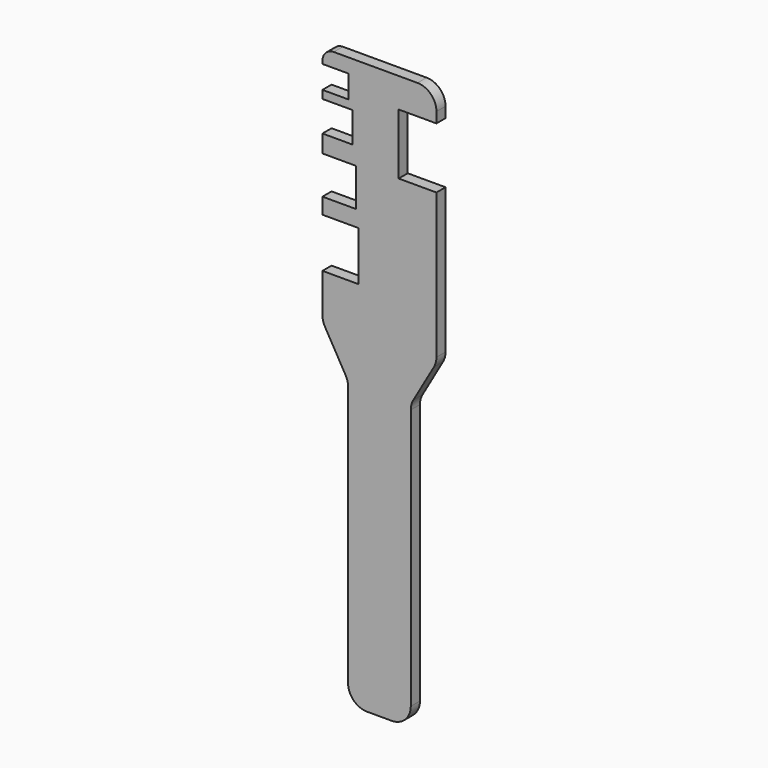
from build123d import *

# Parameters (mm, degrees)
F1_DEPTH = 3
F2_W     = 10.790673
F2_H     = 8
F2_W_2   = 11.792415
F2_H_2   = 10
F2_W_3   = 13.604847
F2_H_3   = 13
F2_W_4   = 18.819063
F2_H_4   = 16
F3_DEPTH = 25
F4_R     = 5
F5_R     = 3
F6_R     = 5
F7_R     = 5
F8_R     = 5
F9_R     = 5
F10_R    = 5
F11_R    = 5


with BuildPart() as f1:
    # F0 (on Front) → F1 (new body)
    with BuildSketch(Plane.XZ):
        Polygon((15, 75), (-15, 75), (-15, 11.736112), (-8.253973, 0), (-8.253973, -75), (0, -75), (8.253973, -75), (8.253973, 0), (15, 11.736112), align=None)
    extrude(amount=F1_DEPTH)

    # F2 (on face) → F3 (cut)
    with BuildSketch(Plane.XZ.offset(3)):
        Polygon((-8.118863, 71.253784), (-15, 71.253784), (-17.755223, 71.253784), (-17.755223, 65.253784), (-8.118863, 65.253784), align=None)
        with Locations((-12.433694, 59.144969)):
            Rectangle(F2_W, F2_H)
        with Locations((-12.069519, 45.514927)):
            Rectangle(F2_W_2, F2_H_2)
        with Locations((-12.249198, 29.82161)):
            Rectangle(F2_W_3, F2_H_3)
        with Locations((14.454825, 59.229082)):
            Rectangle(F2_W_4, F2_H_4)
    extrude(amount=-F3_DEPTH, mode=Mode.SUBTRACT)

    # F4
    f4_edges = [f1.edges().sort_by_distance(p)[0] for p in [
        (15, -1.5, 75),
    ]]
    fillet(f4_edges, radius=F4_R)

    # F5
    f5_edges = [f1.edges().sort_by_distance(p)[0] for p in [
        (-15, -1.5, 75),
    ]]
    fillet(f5_edges, radius=F5_R)

    # F6
    f6_edges = [f1.edges().sort_by_distance(p)[0] for p in [
        (15, -1.5, 11.736112),
    ]]
    fillet(f6_edges, radius=F6_R)

    # F7
    f7_edges = [f1.edges().sort_by_distance(p)[0] for p in [
        (8.253973, -1.5, 0),
    ]]
    fillet(f7_edges, radius=F7_R)

    # F8
    f8_edges = [f1.edges().sort_by_distance(p)[0] for p in [
        (-15, -1.5, 11.736112),
    ]]
    fillet(f8_edges, radius=F8_R)

    # F9
    f9_edges = [f1.edges().sort_by_distance(p)[0] for p in [
        (-8.253973, -1.5, 0),
    ]]
    fillet(f9_edges, radius=F9_R)

    # F10
    f10_edges = [f1.edges().sort_by_distance(p)[0] for p in [
        (-8.253973, -1.5, -75),
    ]]
    fillet(f10_edges, radius=F10_R)

    # F11
    f11_edges = [f1.edges().sort_by_distance(p)[0] for p in [
        (8.253973, -1.5, -75),
    ]]
    fillet(f11_edges, radius=F11_R)


solid = f1.part
